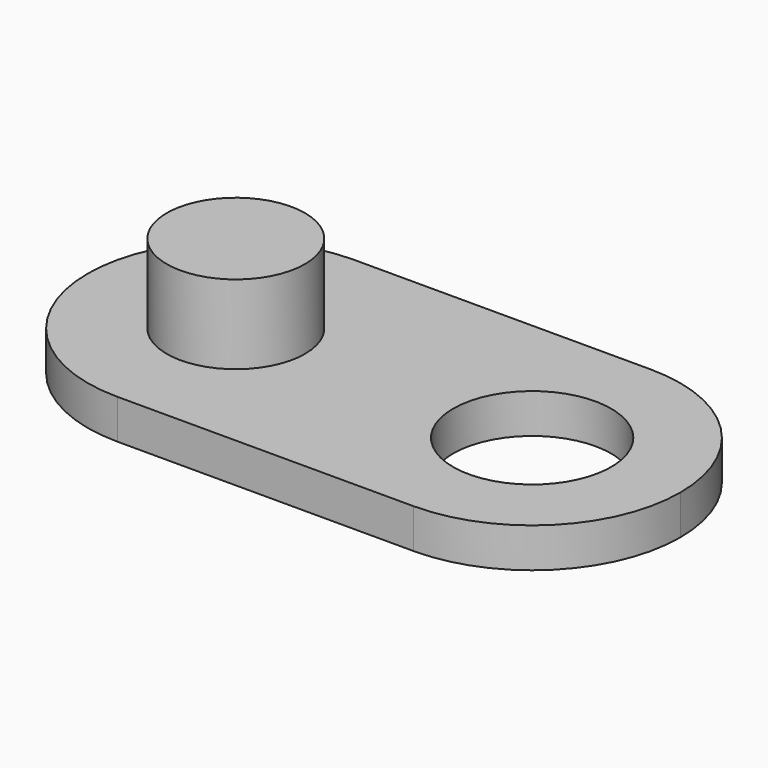
from build123d import *

# Parameters (mm, degrees)
F1_DEPTH = 1.016
F3_D     = 4.064
F4_R     = 1.778
F5_DEPTH = 2.032


with BuildPart() as f1:
    # F0 (on Top) → F1 (new body)
    with BuildSketch(Plane.XY):
        with BuildLine():
            ThreePointArc((-3.81, -3.81), (-1.115923, -2.694077), (0, 0))
            ThreePointArc((0, 0), (-1.115923, 2.694077), (-3.81, 3.81))
            ThreePointArc((-3.81, 3.81), (-7.62, 0), (-3.81, -3.81))
        make_face()
        with BuildLine():
            ThreePointArc((3.81, 3.81), (1.115923, 2.694077), (0, 0))
            ThreePointArc((0, 0), (1.115923, -2.694077), (3.81, -3.81))
            ThreePointArc((3.81, -3.81), (6.504077, -2.694077), (7.62, 0))
            ThreePointArc((7.62, 0), (6.504077, 2.694077), (3.81, 3.81))
        make_face()
        with BuildLine():
            ThreePointArc((3.81, -3.81), (1.115923, -2.694077), (0, 0))
            ThreePointArc((0, 0), (-1.115923, -2.694077), (-3.81, -3.81))
            Line((-3.81, -3.81), (3.81, -3.81))
        make_face()
        with BuildLine():
            ThreePointArc((-3.81, 3.81), (-1.115923, 2.694077), (0, 0))
            ThreePointArc((0, 0), (1.115923, 2.694077), (3.81, 3.81))
            Line((3.81, 3.81), (-3.81, 3.81))
        make_face()
    extrude(amount=F1_DEPTH)

    # F3 (through all)
    with Locations(Plane.XY.offset(1.016)):
        with Locations((3.81, 0)):
            Hole(F3_D / 2)

    # F4 (on face) → F5 (join)
    with BuildSketch(Plane.XY.offset(1.016)):
        with Locations((-3.81, 0)):
            Circle(F4_R)
    extrude(amount=F5_DEPTH)


solid = f1.part
